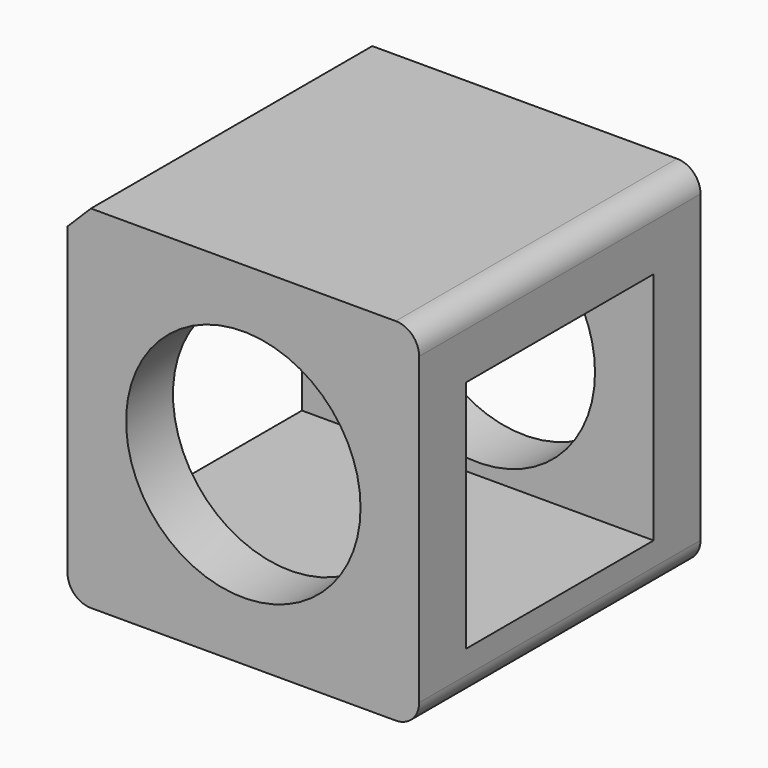
from build123d import *

# Parameters (mm, degrees)
F0_W     = 76.2
F0_H     = 76.2
F1_DEPTH = 38.1
F2_R     = 25.4
F3_DEPTH = 76.2
F4_R     = 5.08
F5_SIZE  = 5.08
F6_R     = 5.08
F7_R     = 5.08
F8_W     = 50.8
F8_H     = 50.8
F9_DEPTH = 76.2


with BuildPart() as f1:
    # F0 (on Front) → F1 (new body, symmetric)
    with BuildSketch(Plane.XZ):
        Rectangle(F0_W, F0_H)
    extrude(amount=F1_DEPTH, both=True)

    # F2 (on face) → F3 (cut)
    with BuildSketch(Plane.XZ.offset(38.1)):
        Circle(F2_R)
    extrude(amount=-F3_DEPTH, mode=Mode.SUBTRACT)

    # F4
    f4_edges = [f1.edges().sort_by_distance(p)[0] for p in [
        (38.1, 0, 38.1),
    ]]
    fillet(f4_edges, radius=F4_R)

    # F5
    f5_edges = [f1.edges().sort_by_distance(p)[0] for p in [
        (-38.1, 0, 38.1),
    ]]
    chamfer(f5_edges, length=F5_SIZE)

    # F6
    f6_edges = [f1.edges().sort_by_distance(p)[0] for p in [
        (38.1, 0, -38.1),
    ]]
    fillet(f6_edges, radius=F6_R)

    # F7
    f7_edges = [f1.edges().sort_by_distance(p)[0] for p in [
        (-38.1, 0, -38.1),
    ]]
    fillet(f7_edges, radius=F7_R)

    # F8 (on face) → F9 (cut)
    with BuildSketch(Plane(origin=(-38.1, 0, 0), x_dir=(0, -1, 0), z_dir=(-1, 0, 0))):
        with Locations((0, -2.506579)):
            Rectangle(F8_W, F8_H)
    extrude(amount=-F9_DEPTH, mode=Mode.SUBTRACT)


solid = f1.part
